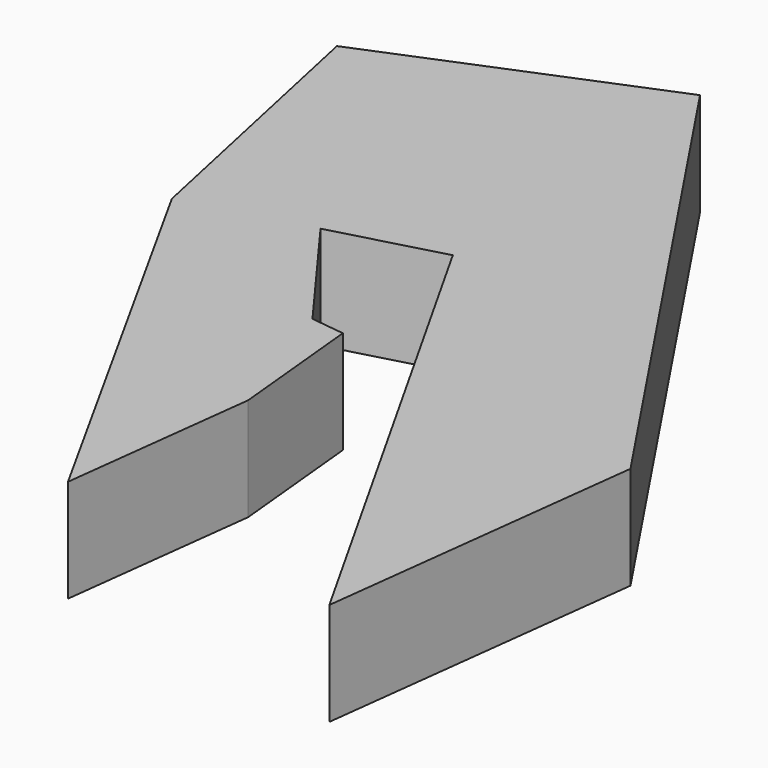
from build123d import *

# Parameters (mm, degrees)
F1_DEPTH = 25


with BuildPart() as f1:
    # F0 (on Top) → F1 (new body)
    with BuildSketch(Plane.XY):
        Polygon((29.01952, 40.568575), (-29.342418, 47.660337), (19.375533, -38.797), align=None)
        Polygon((-50.938771, -30.252865), (-56.531806, 50.964214), (-108.171679, 72.831698), align=None)
        Polygon((-108.171679, 72.831698), (-78.482074, 80.85609), (-122.899927, 141.344324), align=None)
        Polygon((-23.814244, 106.871214), (29.01952, 40.568575), (-56.531806, 168.628752), align=None)
        Polygon((-48.360772, 49.971323), (-56.531806, 50.964214), (-50.938771, -30.252865), (-45.167579, 17.24139), align=None)
        Polygon((-108.171679, 72.831698), (-56.531806, 50.964214), (-78.482074, 80.85609), align=None)
        Polygon((-122.899927, 141.344324), (-78.482074, 80.85609), (-52.070387, 87.994538), align=None)
        Polygon((-122.899927, 141.344324), (-52.070387, 87.994538), (-23.814244, 106.871214), (-56.531806, 168.628752), align=None)
        Polygon((-52.070387, 87.994538), (-29.342418, 47.660337), (29.01952, 40.568575), (-23.814244, 106.871214), align=None)
    extrude(amount=F1_DEPTH)


solid = f1.part
